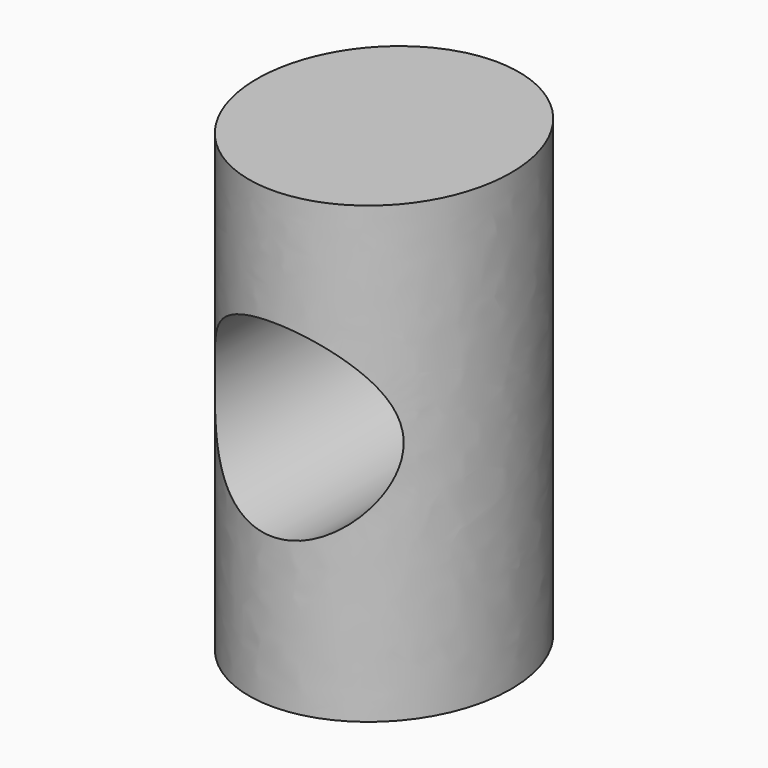
from build123d import *

# Parameters (mm, degrees)
F0_W     = 59.850656
F0_H     = 101.693154
F1_DEPTH = 76.2
F2_W     = 59.850656
F2_H     = 76.2
F3_DEPTH = 127
F4_R     = 21.130874
F5_DEPTH = 403.86


with BuildPart() as f1:
    # F0 (on Front) → F1 (new body)
    with BuildSketch(Plane.XZ):
        Rectangle(F0_W, F0_H)
    extrude(amount=F1_DEPTH)

    # F2 (on face) → F3 (cut)
    with BuildSketch(Plane(origin=(0, 0, -50.846577), x_dir=(1, 0, 0), z_dir=(0, 0, -1))):
        with Locations((0, 38.1)):
            Rectangle(F2_W, F2_H)
        with BuildLine():
            add(Edge.make_bspline(
                [(0, 3.407803), (49.250827, 3.407803), (24.625413, 50.281992), (0, 97.156181), (-24.625413, 50.281992), (-49.250827, 3.407803), (0, 3.407803)],
                knots=[0, 0, 0, 2.094395, 2.094395, 4.18879, 4.18879, 6.283185, 6.283185, 6.283185], degree=2, weights=[1, 0.5, 1, 0.5, 1, 0.5, 1]))
        make_face(mode=Mode.SUBTRACT)
    extrude(amount=-F3_DEPTH, mode=Mode.SUBTRACT)

    # F4 (on Front) → F5 (cut)
    with BuildSketch(Plane.XZ):
        with Locations((0, 3.761154)):
            Circle(F4_R)
    extrude(amount=F5_DEPTH, mode=Mode.SUBTRACT)


solid = f1.part
